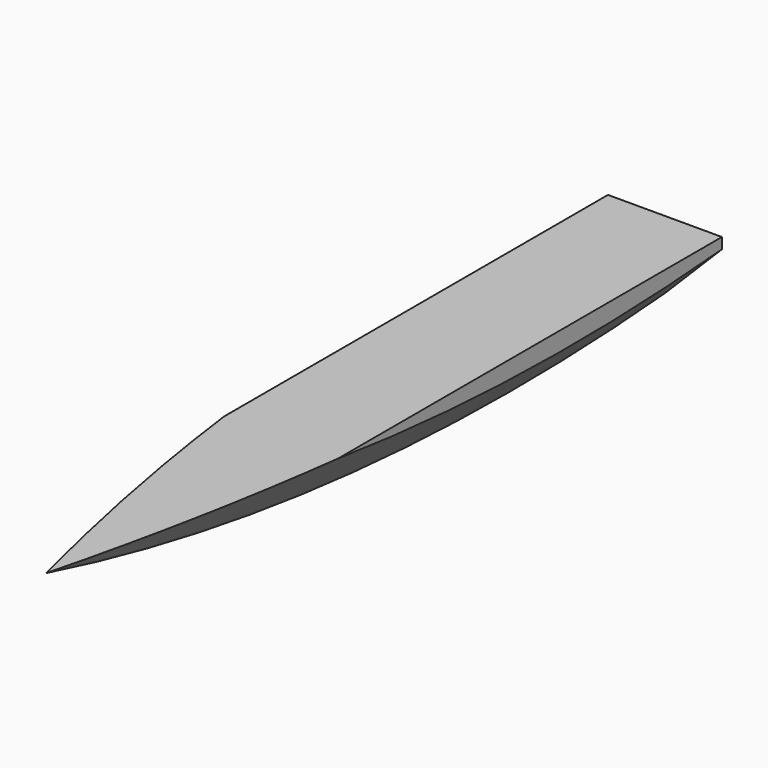
from build123d import *

# Parameters (mm, degrees)
POCKET008003002_DEPTH = 5


with BuildPart() as obj1:
    # Sketch024 → Revolution001 (revolve)
    with BuildSketch(Plane.XZ):
        Polygon((0, 0), (0, -60), (1.5, -58.5), (1.5, 0), align=None)
    revolve(axis=Axis((0, 0, 0), (1, 0, 0)))


with BuildPart() as slidergroove:
    # Part__Mirroring006: instance of obj1
    add(obj1.part.mirror(Plane(origin=(0, 0, 0), x_dir=(0, -1, 0), z_dir=(1, 0, 0))))

    # Fusion: union obj1
    add(obj1.part)

    # Sketch025 → Pocket008003002 (cut)
    with BuildSketch(Plane(origin=(-1.5, 0, 0), x_dir=(0, -1, 0), z_dir=(-1, 0, 0))):
        Polygon((-100, 100), (100, 100), (100, -58), (-5, -58), (-5, -66), (-100, -66), align=None)
    extrude(amount=-POCKET008003002_DEPTH, mode=Mode.SUBTRACT)


solid = slidergroove.part
